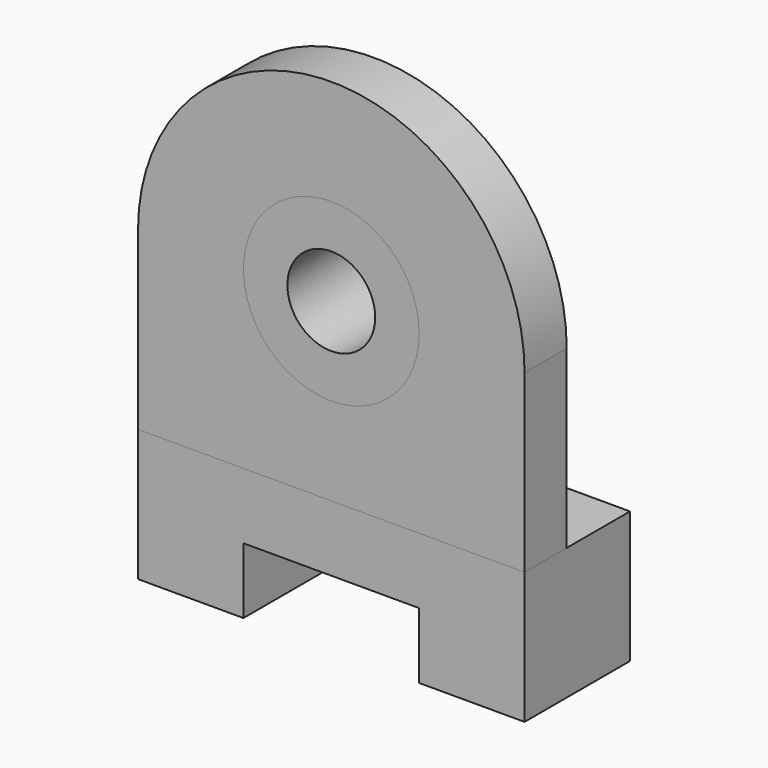
from build123d import *

# Parameters (mm, degrees)
F1_DEPTH = 30
F0_R     = 20
F2_DEPTH = 12
F0_R_2   = 10
F3_DEPTH = 28


with BuildPart() as f1:
    # F0 (on Front) → F1 (new body)
    with BuildSketch(Plane.XZ):
        Polygon((-44, 0), (-44, -30), (-20, -30), (-20, -15), (20, -15), (20, -30), (44, -30), (44, 0), align=None)
    extrude(amount=-F1_DEPTH)


with BuildPart() as f2:
    # F0 (on Front) → F2 (new body)
    with BuildSketch(Plane.XZ):
        with BuildLine():
            Line((-44, 40), (-44, 0))
            Line((-44, 0), (44, 0))
            Line((44, 0), (44, 40))
            ThreePointArc((44, 40), (0, 84), (-44, 40))
        make_face()
        with Locations((0, 40)):
            Circle(F0_R, mode=Mode.SUBTRACT)
    extrude(amount=-F2_DEPTH)


with BuildPart() as f3:
    # F0 (on Front) → F3 (new body)
    with BuildSketch(Plane.XZ):
        with Locations((0, 40)):
            Circle(F0_R)
        with Locations((0, 40)):
            Circle(F0_R_2, mode=Mode.SUBTRACT)
    extrude(amount=-F3_DEPTH)


solid = Compound([f1.part, f2.part, f3.part])
